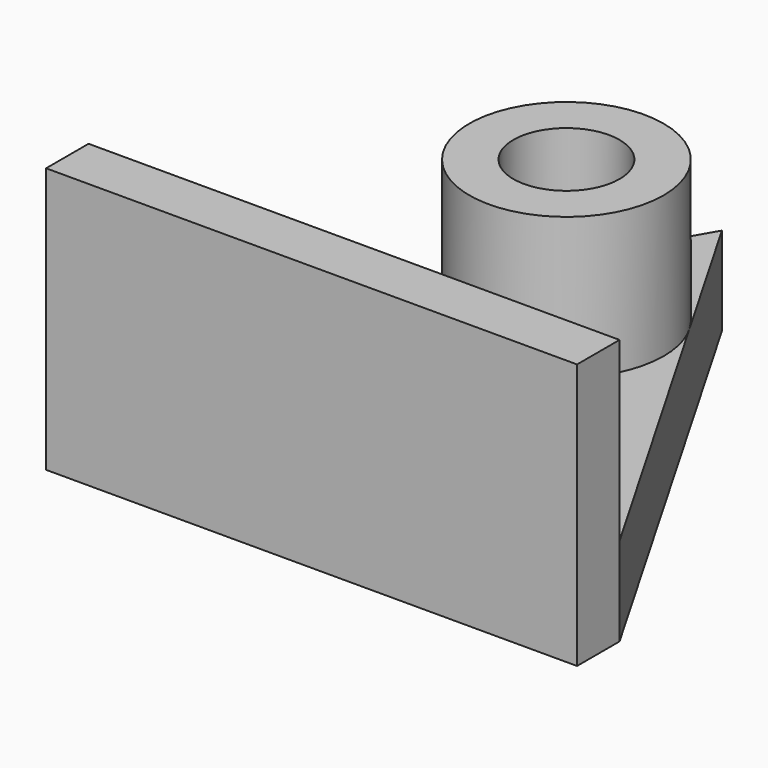
from build123d import *

# Parameters (mm, degrees)
F1_DEPTH = 5
F2_W     = 30
F2_H     = 15
F3_DEPTH = 3
F4_R     = 5.490381
F4_R_2   = 3
F5_DEPTH = 8


with BuildPart() as f1:
    # F0 (on Top) → F1 (new body)
    with BuildSketch(Plane.XY):
        Polygon((0, 25.980762), (-15, 0), (15, 0), align=None)
    extrude(amount=F1_DEPTH)

    # F2 (on face) → F3 (join)
    with BuildSketch(Plane.XZ):
        with Locations((0, 7.5)):
            Rectangle(F2_W, F2_H)
    extrude(amount=F3_DEPTH)

    # F4 (on face) → F5 (join)
    with BuildSketch(Plane.XY.offset(5)):
        with Locations((0, 15)):
            Circle(F4_R)
        with Locations((0, 15)):
            Circle(F4_R_2, mode=Mode.SUBTRACT)
    extrude(amount=F5_DEPTH)


solid = f1.part
